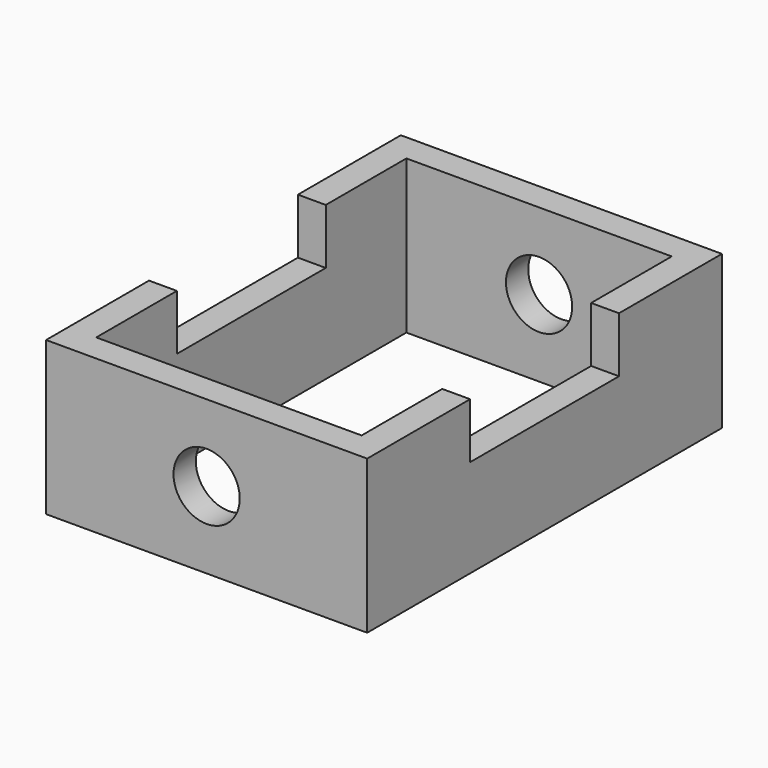
from build123d import *

# Parameters (mm, degrees)
F0_W     = 92.1482667327
F0_H     = 127.2523701191
F0_W_2   = 76.1482641101
F0_H_2   = 111.2523674965
F1_DEPTH = 44
F3_W     = 53.4138903022
F3_H     = 15.9167165458
F2_W     = 53.4138903022
F2_H     = 15.9167165458
F4_DEPTH = 146.8
F6_R     = 9.5
F5_R     = 9.5
F7_DEPTH = 171.1


with BuildPart() as f1:
    # F0 (on Top) → F1 (new body)
    with BuildSketch(Plane.XY):
        Rectangle(F0_W, F0_H)
        Rectangle(F0_W_2, F0_H_2, mode=Mode.SUBTRACT)
    extrude(amount=F1_DEPTH)

    # F3 (on face) + F2 (on face) → F4 (cut)
    with BuildSketch(Plane(origin=(-46.0741333663, 0, 0), x_dir=(0, -1, 0), z_dir=(-1, 0, 0))):
        with Locations((0, 36.0416417271)):
            Rectangle(F3_W, F3_H)
    with BuildSketch(Plane.YZ.offset(46.0741333663)):
        with Locations((0, 36.0416417271)):
            Rectangle(F2_W, F2_H)
    extrude(amount=-F4_DEPTH, dir=(-1, 0, 0), mode=Mode.SUBTRACT)

    # F6 (on face) + F5 (on face) → F7 (cut)
    with BuildSketch(Plane(origin=(0, 63.6261850595, 0), x_dir=(-1, 0, 0), z_dir=(0, 1, 0))):
        with Locations((0, 22)):
            Circle(F6_R)
    with BuildSketch(Plane.XZ.offset(63.6261850595)):
        with Locations((0, 22)):
            Circle(F5_R)
    extrude(amount=-F7_DEPTH, dir=(0, 1, 0), mode=Mode.SUBTRACT)


solid = f1.part
